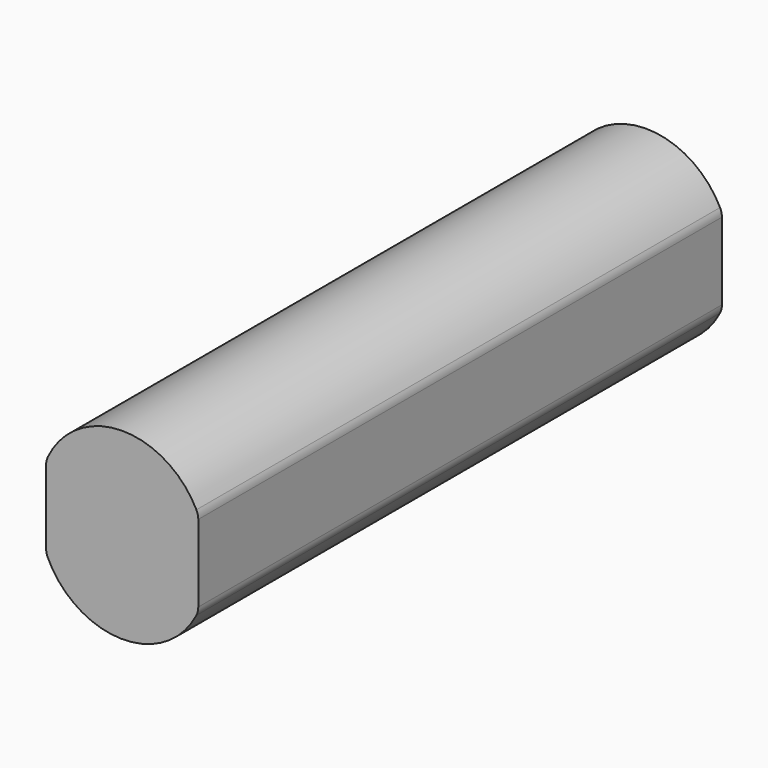
from build123d import *

# Parameters (mm, degrees)
F1_DEPTH = 95.25


with BuildPart() as f1:
    # F0 (on Front) → F1 (new body)
    with BuildSketch(Plane.XZ):
        with BuildLine():
            ThreePointArc((-13.855658, 2.178556), (-14.037455, 1.649547), (-14.09905, 1.093573))
            Line((-14.09905, 1.093573), (-14.09905, -9.595976))
            ThreePointArc((-14.09905, -9.595976), (-14.03879, -10.145966), (-13.86087, -10.669859))
            ThreePointArc((-13.86087, -10.669859), (-3.166244, -17.617713), (7.771441, -11.059152))
            ThreePointArc((7.771441, -11.059152), (7.979193, -10.497663), (8.04975, -9.903145))
            Line((8.04975, -9.903145), (8.04975, 1.320869))
            ThreePointArc((8.04975, 1.320869), (7.980533, 1.909795), (7.776653, 2.466623))
            ThreePointArc((7.776653, 2.466623), (-3.129417, 9.074671), (-13.855658, 2.178556))
        make_face()
    extrude(amount=F1_DEPTH)


solid = f1.part
